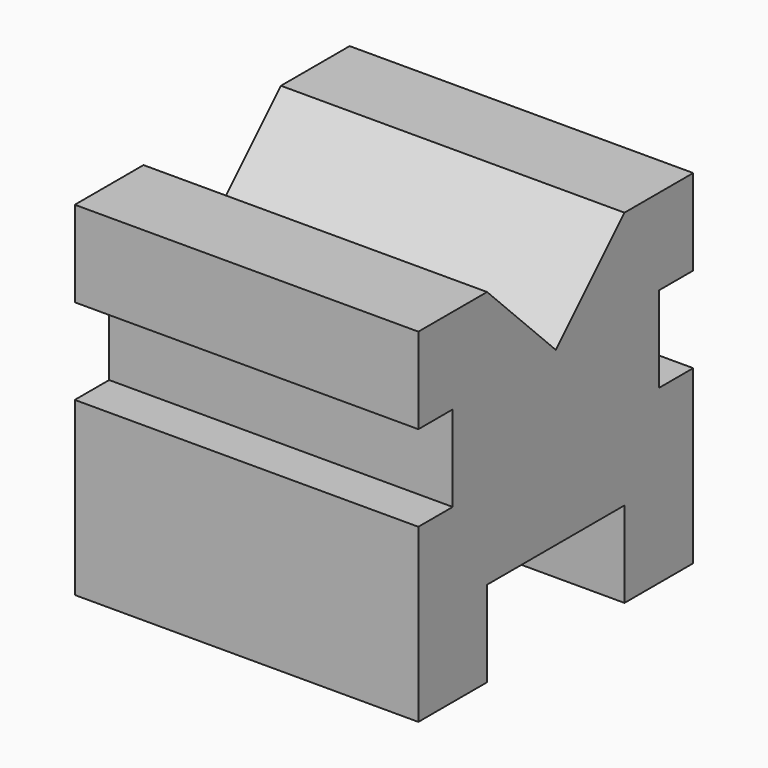
from build123d import *

# Parameters (mm, degrees)
F1_DEPTH = 101.6


with BuildPart() as f1:
    # F0 (on Right) → F1 (new body)
    with BuildSketch(Plane.YZ):
        Polygon((-75.954191, -25.4), (-75.954191, -76.2), (-50.554191, -76.2), (-50.554191, -50.8), (0.245809, -50.8), (0.245809, -76.2), (25.645809, -76.2), (25.645809, -25.4), (12.945809, -25.4), (12.945809, 0), (25.645809, 0), (25.645809, 25.4), (0.245809, 25.4), (-25.154191, 0), (-50.554191, 25.4), (-75.954191, 25.4), (-75.954191, 0), (-63.254191, 0), (-63.254191, -25.4), align=None)
    extrude(amount=F1_DEPTH)


solid = f1.part
